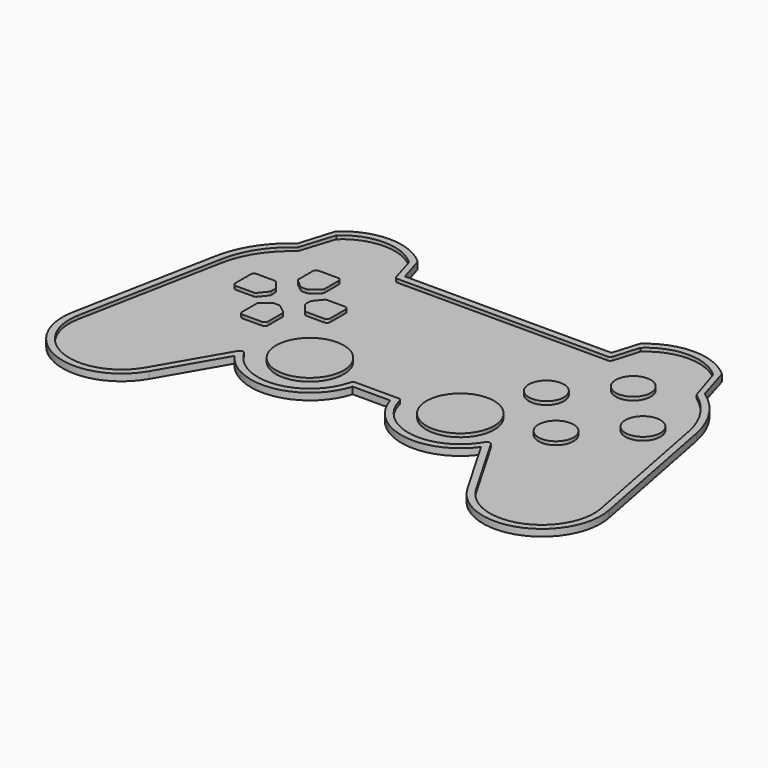
from build123d import *

# Parameters (mm, degrees)
PAD_DEPTH     = 1
SKETCH001_R   = 5.125
SKETCH001_R_2 = 9.9
PAD001_DEPTH  = 1
FILLET_R      = 1


with BuildPart() as part:
    # Sketch → Pad (new body)
    with BuildSketch(Plane.XY):
        with BuildLine():
            Line((70.272578, 45.492899), (78.436266, 3.274963))
            ThreePointArc((46.573742, -8.646925), (67.545071, -16.156101), (78.436266, 3.274963))
            Line((36.055693, 9.509252), (46.573742, -8.646925))
            ThreePointArc((5.490533, 14.509252), (19.215175, 2.485526), (36.055693, 9.509252))
            Line((-5.490533, 14.509252), (5.490533, 14.509252))
            ThreePointArc((-36.055693, 9.509252), (-19.215175, 2.485526), (-5.490533, 14.509252))
            Line((-46.573742, -8.646925), (-36.055693, 9.509252))
            ThreePointArc((-78.436265, 3.274968), (-67.545074, -16.1561), (-46.573742, -8.646925))
            Line((-70.272577, 45.492905), (-78.436265, 3.274968))
            ThreePointArc((-59.5, 62.051362), (-66.503327, 54.824144), (-70.272577, 45.492905))
            Line((-59.5, 62.051362), (-56.5, 72.051362))
            ThreePointArc((-32.5, 72.051362), (-44.5, 76.759252), (-56.5, 72.051362))
            Line((-32.5, 72.051362), (-30.237367, 64.509252))
            Line((-30.237367, 64.509252), (30.237367, 64.509252))
            Line((30.237367, 64.509252), (32.5, 72.051362))
            ThreePointArc((56.5, 72.051362), (44.5, 76.759252), (32.5, 72.051362))
            Line((56.5, 72.051362), (59.5, 62.051362))
            ThreePointArc((70.272578, 45.492899), (66.503328, 54.824142), (59.5, 62.051362))
        make_face()
    extrude(amount=PAD_DEPTH)

    # Sketch001 (on Face20 of Pad) → Pad001 (join)
    with BuildSketch(Plane.XY.offset(1)):
        with BuildLine():
            ThreePointArc((-59.5, 62.051362), (-66.503327, 54.824144), (-70.272577, 45.492905))
            Line((-70.272577, 45.492905), (-78.436265, 3.274968))
            ThreePointArc((-78.436265, 3.274968), (-67.545074, -16.1561), (-46.573742, -8.646925))
            Line((-46.573742, -8.646925), (-36.055693, 9.509252))
            ThreePointArc((-36.055693, 9.509252), (-19.215175, 2.485526), (-5.490533, 14.509252))
            Line((-5.490533, 14.509252), (5.490533, 14.509252))
            ThreePointArc((5.490533, 14.509252), (19.215175, 2.485526), (36.055693, 9.509252))
            Line((36.055693, 9.509252), (46.573742, -8.646925))
            ThreePointArc((46.573742, -8.646925), (67.545071, -16.156101), (78.436266, 3.274963))
            Line((78.436266, 3.274963), (70.272578, 45.492899))
            ThreePointArc((70.272578, 45.492899), (66.503328, 54.824142), (59.5, 62.051362))
            Line((59.5, 62.051362), (56.5, 72.051362))
            ThreePointArc((56.5, 72.051362), (44.5, 76.759252), (32.5, 72.051362))
            Line((32.5, 72.051362), (30.237367, 64.509252))
            Line((30.237367, 64.509252), (-30.237367, 64.509252))
            Line((-30.237367, 64.509252), (-32.5, 72.051362))
            ThreePointArc((-32.5, 72.051362), (-44.5, 76.759252), (-56.5, 72.051362))
            Line((-56.5, 72.051362), (-59.5, 62.051362))
        make_face()
        with BuildLine():
            ThreePointArc((55.140028, 70.584912), (44.5, 74.759252), (33.859972, 70.584912))
            Line((31.437274, 62.509252), (33.859972, 70.584912))
            Line((-31.437274, 62.509252), (31.437274, 62.509252))
            Line((-31.437274, 62.509252), (-33.859972, 70.584912))
            ThreePointArc((-33.859972, 70.584912), (-44.5, 74.759252), (-55.140028, 70.584912))
            Line((-58.357143, 60.410059), (-55.140028, 70.584912))
            ThreePointArc((-58.357143, 60.410059), (-64.826883, 53.733485), (-68.308952, 45.113198))
            Line((-76.47264, 2.895262), (-68.308952, 45.113198))
            ThreePointArc((-76.47264, 2.895262), (-66.844196, -14.282929), (-48.304323, -7.644383))
            Line((-48.304323, -7.644383), (-36.03269, 13.538817))
            ThreePointArc((-36.03269, 13.538817), (-35.306977, 12.060301), (-34.426047, 10.668673))
            ThreePointArc((-34.426047, 10.668673), (-19.538053, 4.459292), (-7.404674, 15.088962))
            ThreePointArc((-7.404674, 15.088962), (-7.209276, 15.794824), (-7.047993, 16.509252))
            Line((-7.047993, 16.509252), (7.047993, 16.509252))
            ThreePointArc((7.047993, 16.509252), (7.209276, 15.794824), (7.404674, 15.088962))
            ThreePointArc((7.404674, 15.088962), (19.538053, 4.459292), (34.426047, 10.668673))
            ThreePointArc((34.426047, 10.668673), (35.306977, 12.060301), (36.03269, 13.538817))
            Line((48.304323, -7.644383), (36.03269, 13.538817))
            ThreePointArc((48.304323, -7.644383), (66.844194, -14.28293), (76.472641, 2.895257))
            Line((76.472641, 2.895257), (68.308953, 45.113193))
            ThreePointArc((68.308953, 45.113193), (64.826884, 53.733483), (58.357143, 60.410059))
            Line((55.140028, 70.584912), (58.357143, 60.410059))
        make_face(mode=Mode.SUBTRACT)
        with Locations((30.375, 40.509252)):
            Circle(SKETCH001_R)
        with Locations((44.5, 54.634252)):
            Circle(SKETCH001_R)
        with Locations((58.625, 40.509252)):
            Circle(SKETCH001_R)
        with Locations((44.5, 26.384252)):
            Circle(SKETCH001_R)
        with Locations((-22, 19.509252)):
            Circle(SKETCH001_R_2)
        with Locations((22, 19.509252)):
            Circle(SKETCH001_R_2)
        Polygon((-58.4, 36.709252), (-51.8, 36.709252), (-49.55, 39.509252), (-49.55, 41.509252), (-51.8, 44.309252), (-58.4, 44.309252), align=None)
        Polygon((-40.7, 26.609252), (-48.3, 26.609252), (-48.3, 33.209252), (-45.5, 35.459252), (-43.5, 35.459252), (-40.7, 33.209252), align=None)
        Polygon((-30.6, 44.309252), (-37.2, 44.309252), (-39.45, 41.509252), (-39.45, 39.509252), (-37.2, 36.709252), (-30.6, 36.709252), align=None)
        Polygon((-48.3, 54.409252), (-40.7, 54.409252), (-40.7, 47.809252), (-43.5, 45.559252), (-45.5, 45.559252), (-48.3, 47.809252), align=None)
    extrude(amount=PAD001_DEPTH)

    # Fillet
    fillet_edges = [part.edges().sort_by_distance(p)[0] for p in [
        (-36.03269, 13.538817, 1.5),
        (-48.3, 26.609252, 1.5),
        (-58.4, 36.709252, 1.5),
        (-58.4, 44.309252, 1.5),
        (-48.3, 54.409252, 1.5),
        (-31.437274, 62.509252, 1.5),
        (-40.7, 54.409252, 1.5),
        (-30.6, 44.309252, 1.5),
        (-30.6, 36.709252, 1.5),
        (-40.7, 26.609252, 1.5),
        (-7.047993, 16.509252, 1.5),
        (36.03269, 13.538817, 1.5),
        (31.437274, 62.509252, 1.5),
        (58.357143, 60.410059, 1.5),
        (7.047993, 16.509252, 1.5),
        (-58.357143, 60.410059, 1.5),
        (-37.2, 36.709252, 1.5),
        (-39.45, 39.509252, 1.5),
        (-43.5, 45.559252, 1.5),
        (-45.5, 45.559252, 1.5),
        (-48.3, 47.809252, 1.5),
        (-51.8, 36.709252, 1.5),
        (-48.3, 33.209252, 1.5),
        (-51.8, 44.309252, 1.5),
        (-49.55, 41.509252, 1.5),
        (-49.55, 39.509252, 1.5),
        (-45.5, 35.459252, 1.5),
        (-43.5, 35.459252, 1.5),
        (-40.7, 33.209252, 1.5),
        (-37.2, 44.309252, 1.5),
        (-40.7, 47.809252, 1.5),
        (-39.45, 41.509252, 1.5),
    ]]
    fillet(fillet_edges, radius=FILLET_R)


solid = part.part
